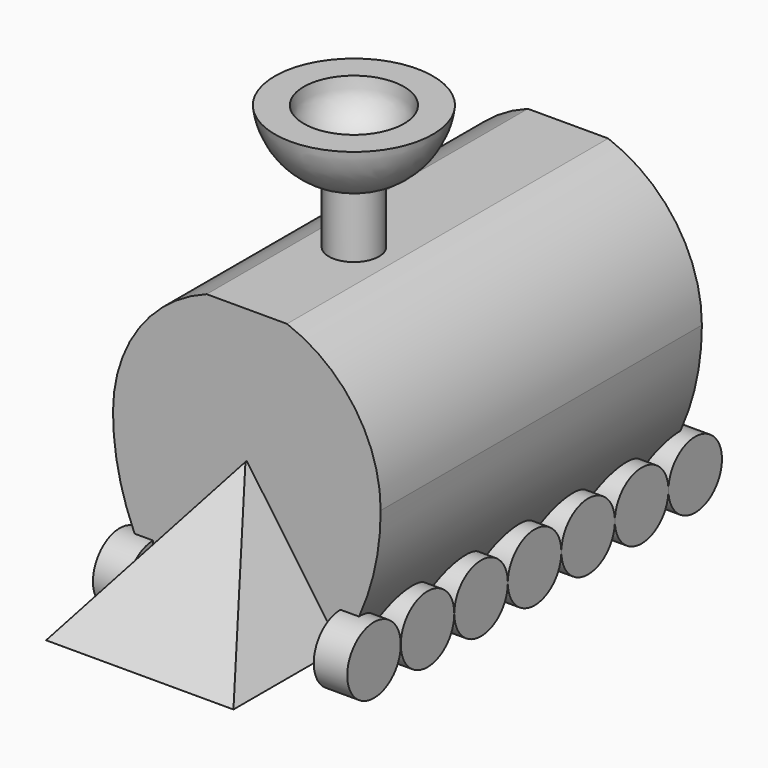
from build123d import *

# Parameters (mm, degrees)
F0_W      = 50.8
F0_H      = 50.8
F1_DEPTH  = 76.2
F5_DEPTH  = 25.4
F7_DEPTH  = 50.8
F12_DEPTH = 76.2
F14_R     = 6.35
F15_DEPTH = 6.35
F17_R     = 6.35
F18_DEPTH = 6.35
F20_DEPTH = 2.54
F21_DEPTH = 2.54


with BuildPart() as f1:
    # F0 (on Front) → F1 (new body)
    with BuildSketch(Plane.XZ):
        with Locations((25.4, 25.4)):
            Rectangle(F0_W, F0_H)
    extrude(amount=F1_DEPTH)

    # F4 (on offset) → F5 (join)
    with BuildSketch(Plane.XZ.offset(76.2)):
        Polygon((25.4, 25.4), (7.62, 0), (43.18, 0), align=None)
    extrude(amount=F5_DEPTH)

    # F6 (on Right) → F7 (cut)
    with BuildSketch(Plane.YZ):
        Polygon((-101.932339, 25.4), (-101.600028, 0.002174), (-76.532339, 25.4), align=None)
    extrude(amount=F7_DEPTH, mode=Mode.SUBTRACT)

    # F9 (on offset) → F10 (revolve)
    with BuildSketch(Plane.YZ.offset(25.4)):
        with BuildLine():
            Line((-55.571403, 50.8), (-50.8, 50.8))
            Line((-50.8, 50.8), (-50.8, 66.301122))
            ThreePointArc((-50.8, 66.301122), (-57.400454, 68.27911), (-60.307197, 74.526452))
            Line((-60.307197, 74.526452), (-65.790743, 74.526452))
            ThreePointArc((-65.790743, 74.526452), (-62.47485, 67.012212), (-55.571403, 62.562339))
            Line((-55.571403, 62.562339), (-55.571403, 50.8))
        make_face()
    revolve(axis=Axis((25.4, -50.8, 58.550561), (0, 0, 1)))

    # F11 (on face) → F12 (cut)
    with BuildSketch(Plane.XZ.offset(76.2)):
        with BuildLine():
            Line((50.8, 50.8), (33.02, 50.8))
            ThreePointArc((33.02, 50.8), (45.913322, 40.902326), (50.8, 25.4))
            Line((50.8, 25.4), (50.8, 50.8))
        make_face()
        with BuildLine():
            ThreePointArc((0, 25.4), (4.886678, 40.902326), (17.78, 50.8))
            Line((17.78, 50.8), (0, 50.8))
            Line((0, 50.8), (0, 25.4))
        make_face()
        with BuildLine():
            ThreePointArc((7.62, 0), (1.946036, 12.140811), (0, 25.4))
            Line((0, 25.4), (0, 0))
            Line((0, 0), (7.62, 0))
        make_face()
        with BuildLine():
            Line((50.8, 0), (50.8, 25.4))
            ThreePointArc((50.8, 25.4), (48.853964, 12.140811), (43.18, 0))
            Line((43.18, 0), (50.8, 0))
        make_face()
    extrude(amount=-F12_DEPTH, mode=Mode.SUBTRACT)

    # F19 (on offset) → F20 (join)
    with BuildSketch(Plane.YZ.offset(25.4)):
        Polygon((0, 22.86), (0, 19.05), (7.62, 19.05), (7.62, 13.97), (12.7, 13.97), (12.7, 22.86), align=None)
    extrude(amount=F20_DEPTH)

    # F19 (on offset) → F21 (join)
    with BuildSketch(Plane.YZ.offset(25.4)):
        Polygon((0, 22.86), (0, 19.05), (7.62, 19.05), (7.62, 13.97), (12.7, 13.97), (12.7, 22.86), align=None)
    extrude(amount=-F21_DEPTH)


with BuildPart() as f15:
    # F14 (on offset) → F15 (new body)
    with BuildSketch(Plane.YZ.offset(7.62)):
        with BuildLine():
            ThreePointArc((-19.05, 0), (-12.7, -6.35), (-6.35, 0))
            ThreePointArc((-6.35, 0), (-12.7, 6.35), (-19.05, 0))
        make_face()
        with Locations((-76.2, 0)):
            Circle(F14_R)
        with BuildLine():
            ThreePointArc((-69.85, 0), (-63.5, -6.35), (-57.15, 0))
            ThreePointArc((-57.15, 0), (-63.5, 6.35), (-69.85, 0))
        make_face()
        with BuildLine():
            ThreePointArc((-57.15, 0), (-50.8, -6.35), (-44.45, 0))
            ThreePointArc((-44.45, 0), (-50.8, 6.35), (-57.15, 0))
        make_face()
        with BuildLine():
            ThreePointArc((-44.45, 0), (-38.1, -6.35), (-31.75, 0))
            ThreePointArc((-31.75, 0), (-38.1, 6.35), (-44.45, 0))
        make_face()
        with BuildLine():
            ThreePointArc((-31.75, 0), (-25.4, -6.35), (-19.05, 0))
            ThreePointArc((-19.05, 0), (-25.4, 6.35), (-31.75, 0))
        make_face()
        with BuildLine():
            ThreePointArc((6.35, 0), (0, 6.35), (-6.35, 0))
            ThreePointArc((-6.35, 0), (0, -6.35), (6.35, 0))
        make_face()
    extrude(amount=-F15_DEPTH)


with BuildPart() as f18:
    # F17 (on offset) → F18 (new body)
    with BuildSketch(Plane.YZ.offset(43.18)):
        with Locations((-76.2, 0)):
            Circle(F17_R)
        with BuildLine():
            ThreePointArc((6.35, 0), (0, 6.35), (-6.35, 0))
            ThreePointArc((-6.35, 0), (0, -6.35), (6.35, 0))
        make_face()
        with BuildLine():
            ThreePointArc((-6.35, 0), (-12.7, 6.35), (-19.05, 0))
            ThreePointArc((-19.05, 0), (-12.7, -6.35), (-6.35, 0))
        make_face()
        with BuildLine():
            ThreePointArc((-19.05, 0), (-25.4, 6.35), (-31.75, 0))
            ThreePointArc((-31.75, 0), (-25.4, -6.35), (-19.05, 0))
        make_face()
        with BuildLine():
            ThreePointArc((-31.75, 0), (-38.1, 6.35), (-44.45, 0))
            ThreePointArc((-44.45, 0), (-38.1, -6.35), (-31.75, 0))
        make_face()
        with BuildLine():
            ThreePointArc((-44.45, 0), (-50.8, 6.35), (-57.15, 0))
            ThreePointArc((-57.15, 0), (-50.8, -6.35), (-44.45, 0))
        make_face()
        with BuildLine():
            ThreePointArc((-57.15, 0), (-63.5, 6.35), (-69.85, 0))
            ThreePointArc((-69.85, 0), (-63.5, -6.35), (-57.15, 0))
        make_face()
    extrude(amount=F18_DEPTH)


solid = Compound([f1.part, f15.part, f18.part])
